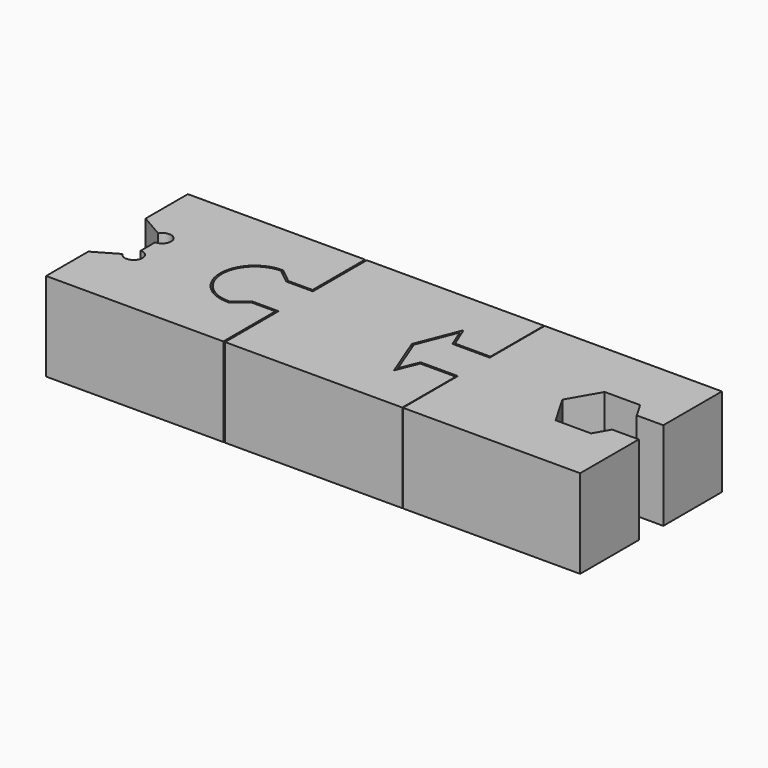
from build123d import *

# Parameters (mm, degrees)
F0_W     = 3
F0_H     = 2.449472
F0_H_2   = 2.388333
F1_DEPTH = 10
F4_DEPTH = 10
F5_DEPTH = 10
F7_DEPTH = 10.001
F8_R     = 1
F9_DEPTH = 10.001


with BuildPart() as f1:
    # F0 (on Top) → F1 (new body)
    with BuildSketch(Plane.XY):
        with BuildLine():
            Line((-13, -2.449472), (-13, 0))
            Line((-13, 0), (-14.647593, 0))
            Line((-14.647593, 0), (-14.647593, 3.7))
            ThreePointArc((-14.647593, 3.7), (-18.34712, -0.059169), (-14.52927, -3.698108))
            Line((-14.52927, -3.698108), (-13, -2.449472))
        make_face()
        Polygon((-13, 0), (-13, 2.388333), (-14.647593, 3.7), (-14.647593, 0), align=None)
        Polygon((-13, 0), (-13, 2.388333), (-14.647593, 3.7), (-14.647593, 0), align=None)
        with BuildLine():
            Line((-13, -2.449472), (-13, 0))
            Line((-13, 0), (-14.647593, 0))
            Line((-14.647593, 0), (-14.647593, 3.7))
            ThreePointArc((-14.647593, 3.7), (-18.34712, -0.059169), (-14.52927, -3.698108))
            Line((-14.52927, -3.698108), (-13, -2.449472))
        make_face()
        with Locations((-11.5, -1.224736)):
            Rectangle(F0_W, F0_H)
        with Locations((-11.5, 1.194166)):
            Rectangle(F0_W, F0_H_2)
        with Locations((-11.5, 1.194166)):
            Rectangle(F0_W, F0_H_2)
        with Locations((-11.5, -1.224736)):
            Rectangle(F0_W, F0_H)
        Polygon((10, 4.895196), (10, 10), (-10, 10), (-10, 2.388333), (-10, 0), (-10, -2.449472), (-10, -10), (10, -10), (10, -4.925328), (5, -4.925328), (3.075398, 0), (5, 4.895196), align=None)
        Polygon((10, -4.925328), (10, -2.462664), (6, -2.462664), (5, -4.925328), align=None)
        Polygon((10, 2.447598), (10, 4.895196), (5, 4.895196), (6, 2.447598), align=None)
    extrude(amount=F1_DEPTH)


with BuildPart() as f4:
    # F2 (on Top) → F4 (new body)
    with BuildSketch(Plane.XY):
        Polygon((30.071606, 10), (10.071606, 10), (10.071606, 2.247598), (10.071606, 1.537336), (10.071606, -2.247598), (10.071606, -2.462664), (10.071606, -10), (30.071606, -10), (30.071606, -1.732051), (27.071606, -1.732051), (26.071606, -3.464102), (22.071606, -3.464102), (20.071606, 0), (22.071606, 3.464102), (26.071606, 3.464102), (27.071606, 1.732051), (30.071606, 1.732051), align=None)
        Polygon((10.071606, 1.537336), (10.071606, 2.247598), (5.865853, 2.247598), (4.567088, 2.247598), (4.567088, -2.247598), (5.871471, -2.247598), (10.071606, -2.247598), align=None)
        Polygon((4.567088, 2.247598), (5.865853, 2.247598), (5.01304, 4.334941), (3.308709, 0), (5.01304, -4.361624), (5.871471, -2.247598), (4.567088, -2.247598), align=None)
    extrude(amount=F4_DEPTH)


with BuildPart() as f5:
    # F3 (on face) → F5 (new body, through all)
    with BuildSketch(Plane.XY):
        with BuildLine():
            ThreePointArc((-14.454449, -3.895214), (-18.547112, -0.06126), (-14.576899, 3.899359))
            Line((-14.576899, 3.899359), (-12.93011, 2.588333))
            Line((-12.93011, 2.588333), (-10.2, 2.588333))
            Line((-10.2, 2.588333), (-10.2, 10))
            Line((-10.2, 10), (-30.2, 10))
            Line((-30.2, 10), (-30.2, -10))
            Line((-30.2, -10), (-10.2, -10))
            Line((-10.2, -10), (-10.2, -2.649472))
            Line((-10.2, -2.649472), (-12.928722, -2.649472))
            Line((-12.928722, -2.649472), (-14.454449, -3.895214))
        make_face()
    extrude(amount=F5_DEPTH)

    # F6 (on face) → F7 (cut, through all)
    with BuildSketch(Plane.XY.offset(10)):
        Polygon((-26.7, -2.020726), (-26.7, 2.020726), (-30.2, 4.041452), (-33.7, 2.020726), (-33.7, -2.020726), (-30.2, -4.041452), align=None)
    extrude(amount=-F7_DEPTH, mode=Mode.SUBTRACT)

    # F8 (on face) → F9 (cut, through all)
    with BuildSketch(Plane(origin=(0, 0, 0), x_dir=(1, 0, 0), z_dir=(0, 0, -1))):
        with Locations((-26.7, -2.020726)):
            Circle(F8_R)
        with Locations((-26.7, 2.020726)):
            Circle(F8_R)
    extrude(amount=-F9_DEPTH, mode=Mode.SUBTRACT)


solid = Compound([f1.part, f4.part, f5.part])
